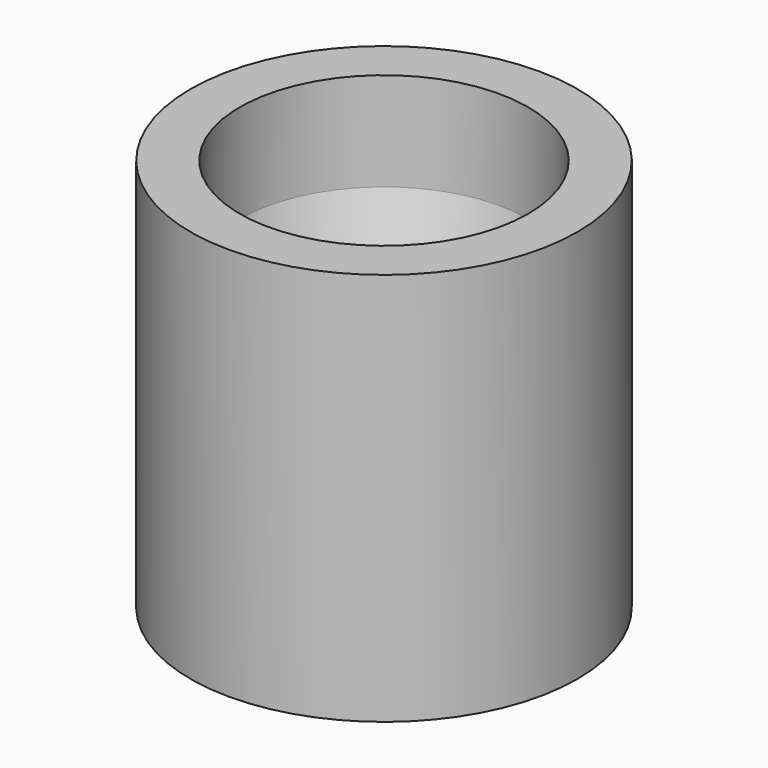
from build123d import *

# Parameters (mm, degrees)
F0_R        = 5.9
F0_R_2      = 2
F1_DEPTH    = 9
F2_SIZE2    = 2.4
F2_SIZE     = 8
F1_FACE_R   = 5.9
F1_FACE_R_2 = 4.4
F3_DEPTH    = 3


with BuildPart() as f1:
    # F0 (on Top) → F1 (new body)
    with BuildSketch(Plane.XY):
        Circle(F0_R)
        Circle(F0_R_2, mode=Mode.SUBTRACT)
    extrude(amount=F1_DEPTH)

    # F2
    f2_edges = [f1.edges().sort_by_distance(p)[0] for p in [
        (-2, 0, 9),
    ]]
    chamfer(f2_edges, length=F2_SIZE, length2=F2_SIZE2)

    # F1_face (on face) → F3 (join)
    with BuildSketch(Plane.XY.offset(9)):
        Circle(F1_FACE_R)
        Circle(F1_FACE_R_2, mode=Mode.SUBTRACT)
    extrude(amount=F3_DEPTH)


solid = f1.part
